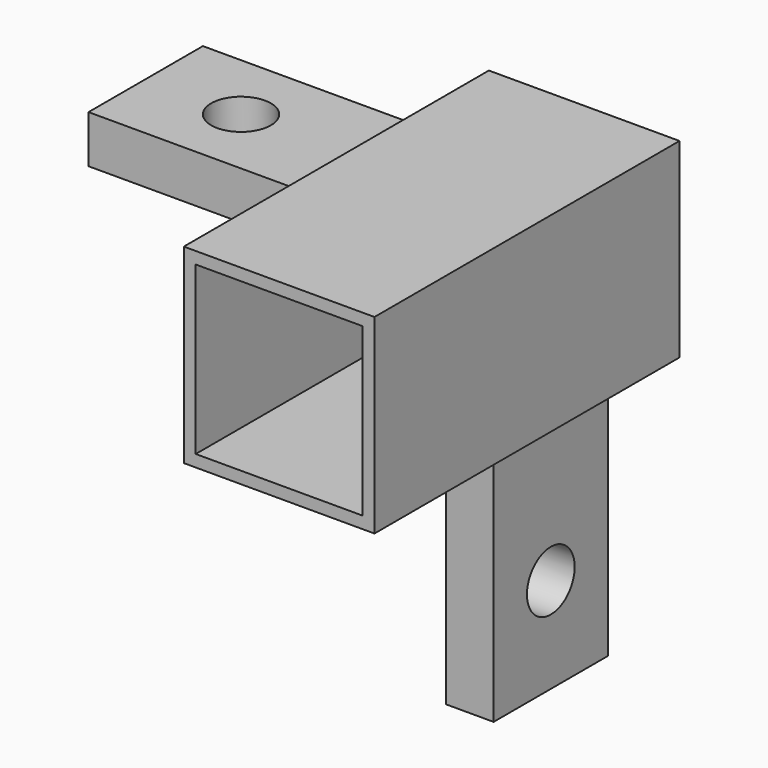
from build123d import *

# Parameters (mm, degrees)
F0_W     = 25.4
F0_H     = 25.4
F0_W_2   = 22.225
F0_H_2   = 22.225
F1_DEPTH = 50.8
F2_W     = 6.35
F2_H     = 38.1
F2_W_2   = 38.1
F2_H_2   = 6.35
F3_DEPTH = 19.05
F4_R     = 3.9751
F5_DEPTH = 25.4
F6_R     = 3.9751
F7_DEPTH = 25.4


with BuildPart() as f1:
    # F0 (on Front) → F1 (new body)
    with BuildSketch(Plane.XZ):
        with Locations((12.7, 12.7)):
            Rectangle(F0_W, F0_H)
        with Locations((12.7, 12.7)):
            Rectangle(F0_W_2, F0_H_2, mode=Mode.SUBTRACT)
    extrude(amount=F1_DEPTH)

    # F2 (on Front) → F3 (join)
    with BuildSketch(Plane.XZ):
        with Locations((12.7, -19.05)):
            Rectangle(F2_W, F2_H)
        with Locations((-19.05, 12.7)):
            Rectangle(F2_W_2, F2_H_2)
    extrude(amount=F3_DEPTH)

    # F4 (on face) → F5 (cut)
    with BuildSketch(Plane(origin=(9.525, 0, 0), x_dir=(0, -1, 0), z_dir=(-1, 0, 0))):
        with Locations((9.525, -25.4)):
            Circle(F4_R)
    extrude(amount=-F5_DEPTH, mode=Mode.SUBTRACT)

    # F6 (on face) → F7 (cut)
    with BuildSketch(Plane(origin=(0, 0, 9.525), x_dir=(1, 0, 0), z_dir=(0, 0, -1))):
        with Locations((-25.4, 9.525)):
            Circle(F6_R)
    extrude(amount=-F7_DEPTH, mode=Mode.SUBTRACT)


solid = f1.part
